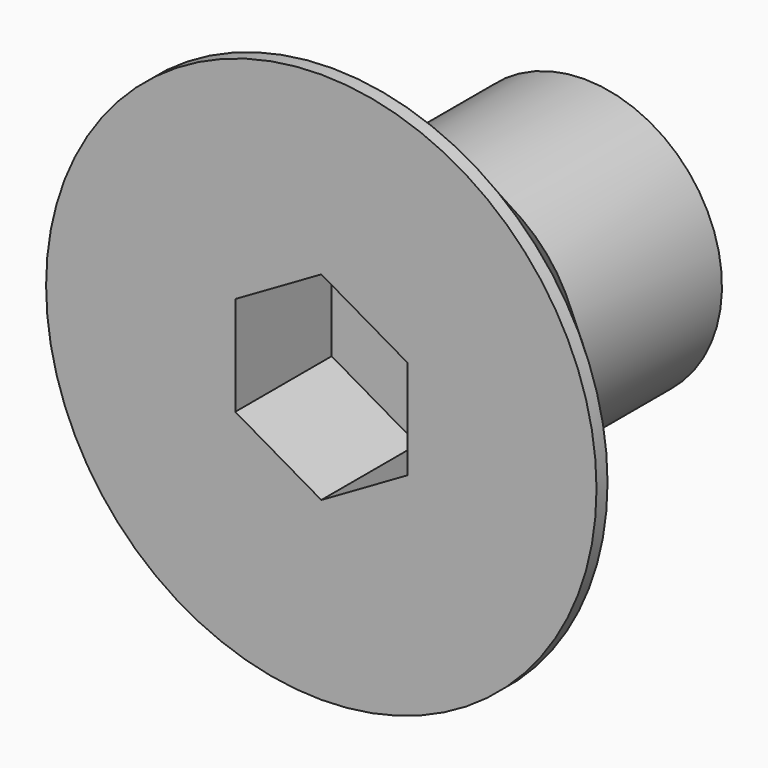
from build123d import *

# Parameters (mm, degrees)
POCKET_DEPTH = 3.5


with BuildPart() as part:
    # Sketch → Revolution (revolve)
    with BuildSketch(Plane.YZ):
        Polygon((0, 0), (0, 8), (0.4, 8), (4.4, 4), (9.558327, 4), (10, 3.235), (10, 0), align=None)
    revolve(axis=Axis((0, 0, 0), (0, 1, 0)))

    # Sketch001 → Pocket (cut)
    with BuildSketch(Plane(origin=(0, 0, 0), x_dir=(0, 0, -1), z_dir=(0, -1, 0))):
        Polygon((1.443376, 2.5), (-1.443376, 2.5), (-2.886751, 0), (-1.443376, -2.5), (1.443376, -2.5), (2.886751, 0), align=None)
    extrude(amount=-POCKET_DEPTH, mode=Mode.SUBTRACT)


solid = part.part
